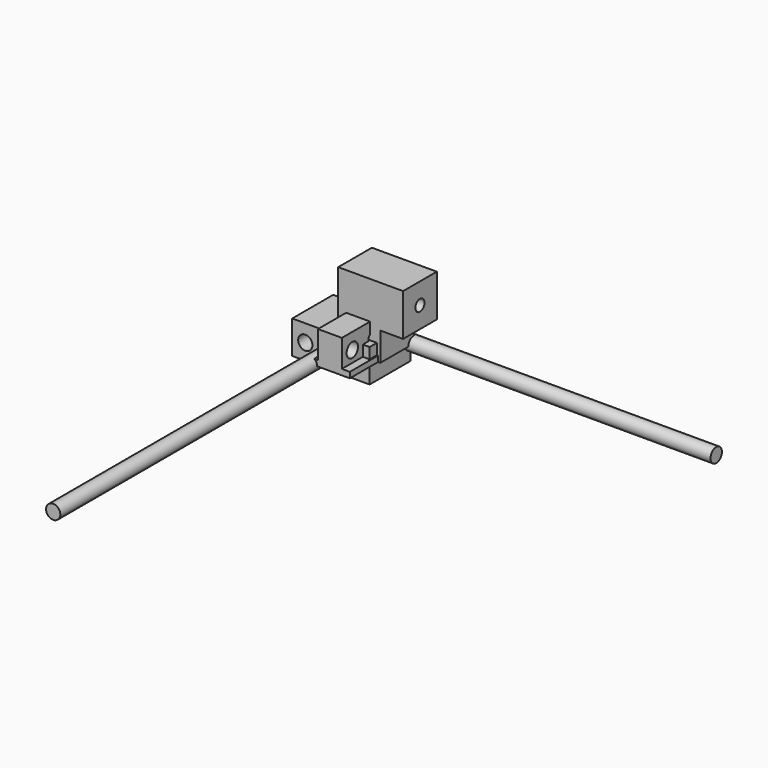
from build123d import *

# Parameters (mm, degrees)
F1_DEPTH  = 136
F2_R      = 12.5
F2_R_2    = 10
F3_DEPTH  = 56.001
F4_R      = 10
F5_DEPTH  = 605
F4_R_2    = 12.5
F6_DEPTH  = 605
F7_W      = 136
F7_H      = 58
F7_R      = 12.5
F7_R_2    = 10
F8_DEPTH  = 90
F10_DEPTH = 74
F11_R     = 10
F12_DEPTH = 25
F13_R     = 10
F14_DEPTH = 25
F15_R     = 12.5
F16_DEPTH = 700


with BuildPart() as f1:
    # F0 (on Front) → F1 (new body)
    with BuildSketch(Plane.XZ):
        Polygon((0, 10), (0, 0), (70, 0), (70, 10), (56, 10), (56, 58), (14, 58), (14, 10), align=None)
    extrude(amount=F1_DEPTH)

    # F2 (on face) → F3 (cut, through all)
    with BuildSketch(Plane.YZ.offset(56)):
        with Locations((-113, 30)):
            Circle(F2_R)
        with Locations((-68, 30)):
            Circle(F2_R_2)
        with Locations((-23, 30)):
            Circle(F2_R)
    extrude(amount=-F3_DEPTH, mode=Mode.SUBTRACT)


with BuildPart() as f5:
    # F4 (on Right) → F5 (new body)
    with BuildSketch(Plane.YZ):
        Circle(F4_R)
    extrude(amount=F5_DEPTH)


with BuildPart() as f6:
    # F4 (on Right) → F6 (new body)
    with BuildSketch(Plane.YZ):
        Circle(F4_R_2)
        Circle(F4_R, mode=Mode.SUBTRACT)
        Circle(F4_R)
    extrude(amount=F6_DEPTH)


with BuildPart() as f8:
    # F7 (on Front) → F8 (new body)
    with BuildSketch(Plane.XZ):
        Rectangle(F7_W, F7_H)
        with Locations((-45, -1)):
            Circle(F7_R, mode=Mode.SUBTRACT)
        with Locations((0, -1)):
            Circle(F7_R_2, mode=Mode.SUBTRACT)
        with Locations((45, -1)):
            Circle(F7_R, mode=Mode.SUBTRACT)
    extrude(amount=F8_DEPTH)


with BuildPart() as f10:
    # F9 (on Front) → F10 (new body)
    with BuildSketch(Plane.XZ):
        Polygon((0, 124), (0, 0), (74, 0), (74, 50), (114, 50), (114, 124), align=None)
    extrude(amount=F10_DEPTH)

    # F11 (on face) → F12 (cut)
    with BuildSketch(Plane(origin=(0, 0, 0), x_dir=(1, 0, 0), z_dir=(0, 0, -1))):
        with Locations((37, 37)):
            Circle(F11_R)
    extrude(amount=-F12_DEPTH, mode=Mode.SUBTRACT)

    # F13 (on face) → F14 (cut)
    with BuildSketch(Plane.YZ.offset(114)):
        with Locations((-37, 87)):
            Circle(F13_R)
    extrude(amount=-F14_DEPTH, mode=Mode.SUBTRACT)


with BuildPart() as f16:
    # F15 (on Front) → F16 (new body)
    with BuildSketch(Plane.XZ):
        Circle(F15_R)
    extrude(amount=F16_DEPTH)


solid = Compound([f1.part, f5.part, f6.part, f8.part, f10.part, f16.part])
